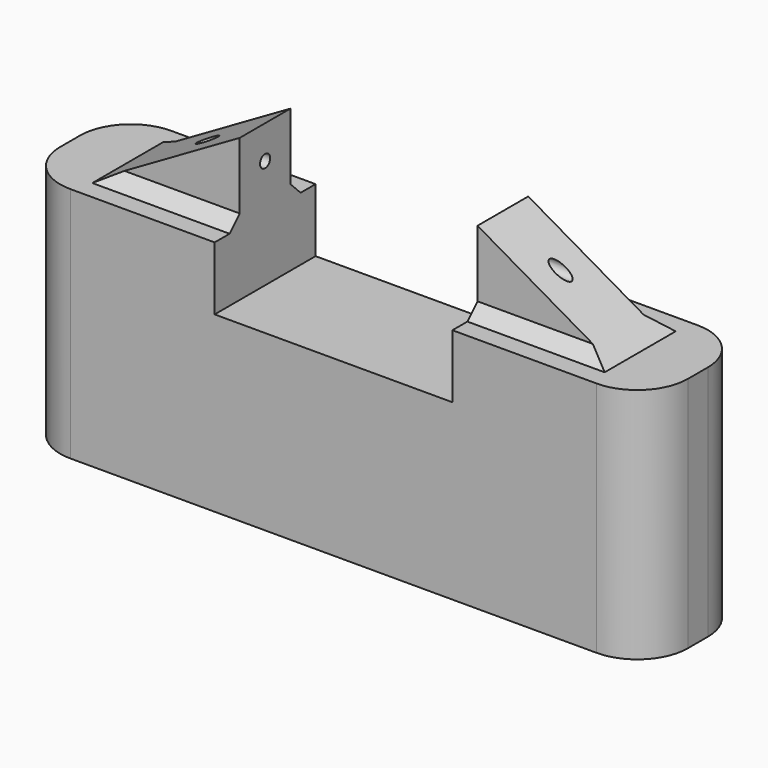
from build123d import *

# Parameters (mm, degrees)
SKETCH_W             = 50.292
SKETCH_H             = 10.1092
PAD_DEPTH            = 18.9992
FILLET_R             = 4.064
SKETCH001_W          = 19.05
SKETCH001_H          = 5.08
POCKET_DEPTH         = 10.1102
PAD001_DEPTH         = 2.54
CHAMFER_SIZE         = 1.016
SKETCH003_R          = 0.508
POCKET001_DEPTH      = 25.147
POCKET001_DEPTH_BACK = -25.147


with BuildPart() as part:
    # Sketch → Pad (new body)
    with BuildSketch(Plane.XY):
        Rectangle(SKETCH_W, SKETCH_H)
    extrude(amount=PAD_DEPTH)

    # Fillet
    fillet_edges = [part.edges().sort_by_distance(p)[0] for p in [
        (-25.146, -5.0546, 9.4996),
        (25.146, -5.0546, 9.4996),
        (25.146, 5.0546, 9.4996),
        (-25.146, 5.0546, 9.4996),
    ]]
    fillet(fillet_edges, radius=FILLET_R)

    # Sketch001 (on Face10 of Fillet) → Pocket (cut, through all)
    with BuildSketch(Plane.XZ.offset(5.0546)):
        with Locations((0, 16.4592)):
            Rectangle(SKETCH001_W, SKETCH001_H)
    extrude(amount=-POCKET_DEPTH, mode=Mode.SUBTRACT)

    # Sketch002 → Pad001 (join, symmetric)
    with BuildSketch(Plane.XZ):
        Polygon((9.525, 18.9992), (9.525, 25.3492), (20.523523, 18.9992), align=None)
        Polygon((-9.525, 18.9992), (-9.525, 25.3492), (-20.523523, 18.9992), align=None)
    extrude(amount=PAD001_DEPTH, both=True)

    # Chamfer
    chamfer_edges = [part.edges().sort_by_distance(p)[0] for p in [
        (-15.024261, -2.54, 18.9992),
        (15.024261, -2.54, 18.9992),
        (-15.024261, 2.54, 18.9992),
        (15.024261, 2.54, 18.9992),
    ]]
    chamfer(chamfer_edges, length=CHAMFER_SIZE)

    # Sketch003 → Pocket001 (cut, two sides)
    with BuildSketch(Plane.YZ) as pocket001_sk:
        with Locations((0, 22.6822)):
            Circle(SKETCH003_R)
    extrude(amount=-POCKET001_DEPTH, mode=Mode.SUBTRACT)
    extrude(pocket001_sk.sketch, amount=-POCKET001_DEPTH_BACK, mode=Mode.SUBTRACT)


solid = part.part
